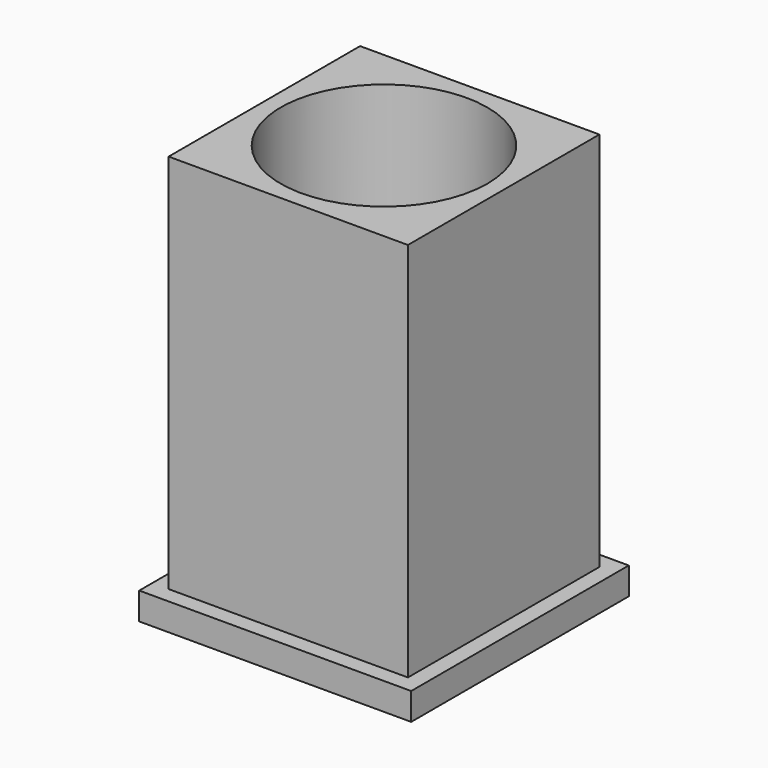
from build123d import *

# Parameters (mm, degrees)
F0_W      = 50
F0_H      = 50
F1_DEPTH  = 5
F2_W      = 44
F2_H      = 44
F2_R      = 19
F3_DEPTH  = 70
F3_FACE_R = 19
F4_DEPTH  = 78.5


with BuildPart() as f1:
    # F0 (on Top) → F1 (new body)
    with BuildSketch(Plane.XY):
        Rectangle(F0_W, F0_H)
    extrude(amount=F1_DEPTH)

    # F2 (on face) → F3 (join)
    with BuildSketch(Plane.XY.offset(5)):
        Rectangle(F2_W, F2_H)
        Circle(F2_R, mode=Mode.SUBTRACT)
    extrude(amount=F3_DEPTH)

    # F3_face (on face) → F4 (cut)
    with BuildSketch(Plane.XY.offset(5)):
        Circle(F3_FACE_R)
    extrude(amount=-F4_DEPTH, mode=Mode.SUBTRACT)


solid = f1.part
